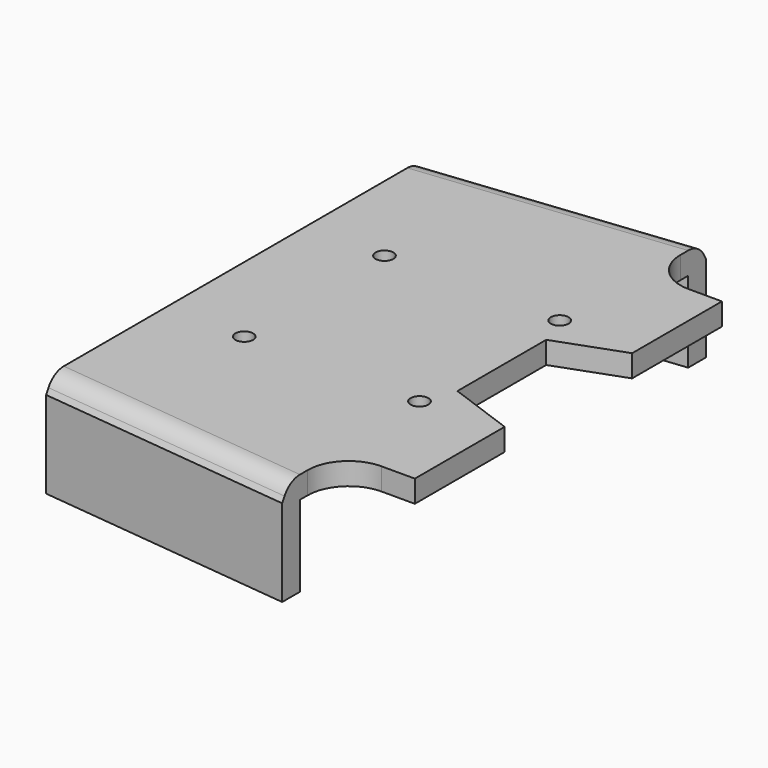
from build123d import *

# Parameters (mm, degrees)
SKETCH047_R          = 0.8
POCKET027_DEPTH      = 6.3010001
POCKET027_DEPTH_BACK = 3.0010001
POCKET028_DEPTH      = 6.3010001
POCKET028_DEPTH_BACK = 3.0010001
POCKET030_DEPTH      = 123.0422530554
POCKET030_DEPTH_BACK = 119.7422530554


with BuildPart() as part:
    # Sketch046 → AdditiveLoft section 0
    with BuildSketch(Plane.YZ.offset(-15)):
        with BuildLine():
            Line((-19.35, 3), (19.35, 3))
            ThreePointArc((21.0820508076, 2), (20.35, 2.7320508076), (19.35, 3))
            Line((21.0820508076, 2), (21.35, 1.5358983849))
            Line((21.35, 1.5358983849), (21.35, -6.3))
            Line((21.35, -6.3), (19.35, -6.3))
            Line((19.35, 1), (19.35, -6.3))
            Line((-19.35, 1), (19.35, 1))
            Line((-19.35, -6.3), (-19.35, 1))
            Line((-19.35, -6.3), (-21.35, -6.3))
            Line((-21.35, -6.3), (-21.35, 1.5358983849))
            Line((-21.0820508076, 2), (-21.35, 1.5358983849))
            ThreePointArc((-19.35, 3), (-20.35, 2.7320508076), (-21.0820508076, 2))
        make_face()
    # Sketch058 → AdditiveLoft section 1
    with BuildSketch(Plane.YZ.offset(15)):
        with BuildLine():
            Line((-22.6, 3), (22.6, 3))
            ThreePointArc((24.3320508076, 2), (23.6, 2.7320508076), (22.6, 3))
            Line((24.3320508076, 2), (24.6, 1.5358983849))
            Line((24.6, 1.5358983849), (24.6, -6.3))
            Line((24.6, -6.3), (22.6, -6.3))
            Line((22.6, 1), (22.6, -6.3))
            Line((-22.6, 1), (22.6, 1))
            Line((-22.6, -6.3), (-22.6, 1))
            Line((-22.6, -6.3), (-24.6, -6.3))
            Line((-24.6, -6.3), (-24.6, 1.5358983849))
            Line((-24.3320508076, 2), (-24.6, 1.5358983849))
            ThreePointArc((-22.6, 3), (-23.6, 2.7320508076), (-24.3320508076, 2))
        make_face()
    loft()

    # Sketch047 → Pocket027 (cut, two sides)
    with BuildSketch(Plane.XY) as pocket027_sk:
        with Locations((7.9, 7.9)):
            Circle(SKETCH047_R)
        with Locations((-7.9, 7.9)):
            Circle(SKETCH047_R)
        with Locations((-7.9, -7.9)):
            Circle(SKETCH047_R)
        with Locations((7.9, -7.9)):
            Circle(SKETCH047_R)
    extrude(amount=-POCKET027_DEPTH, mode=Mode.SUBTRACT)
    extrude(pocket027_sk.sketch, amount=POCKET027_DEPTH_BACK, mode=Mode.SUBTRACT)

    # Sketch048 → Pocket028 (cut, two sides)
    with BuildSketch(Plane.XY) as pocket028_sk:
        Polygon((9, 5), (16, 7.5477916399), (16, -7.5477916399), (9, -5), align=None)
    extrude(amount=-POCKET028_DEPTH, mode=Mode.SUBTRACT)
    extrude(pocket028_sk.sketch, amount=POCKET028_DEPTH_BACK, mode=Mode.SUBTRACT)

    # Sketch050 → Pocket030 (cut, two sides)
    with BuildSketch(Plane.XY) as pocket030_sk:
        with BuildLine():
            Line((8.3, 30), (18.3, 30))
            Line((18.3, 30), (18.3, 17.3))
            Line((12, 17.3), (18.3, 17.3))
            ThreePointArc((8.3, 21), (9.3837049096, 18.3837049096), (12, 17.3))
            Line((8.3, 21), (8.3, 30))
        make_face()
    pocket030 = extrude(amount=-POCKET030_DEPTH, mode=Mode.SUBTRACT) + extrude(pocket030_sk.sketch, amount=POCKET030_DEPTH_BACK, mode=Mode.SUBTRACT)

    # Mirrored011: Pocket030 across XZ
    add(pocket030.mirror(Plane.XZ), mode=Mode.SUBTRACT)


solid = part.part
